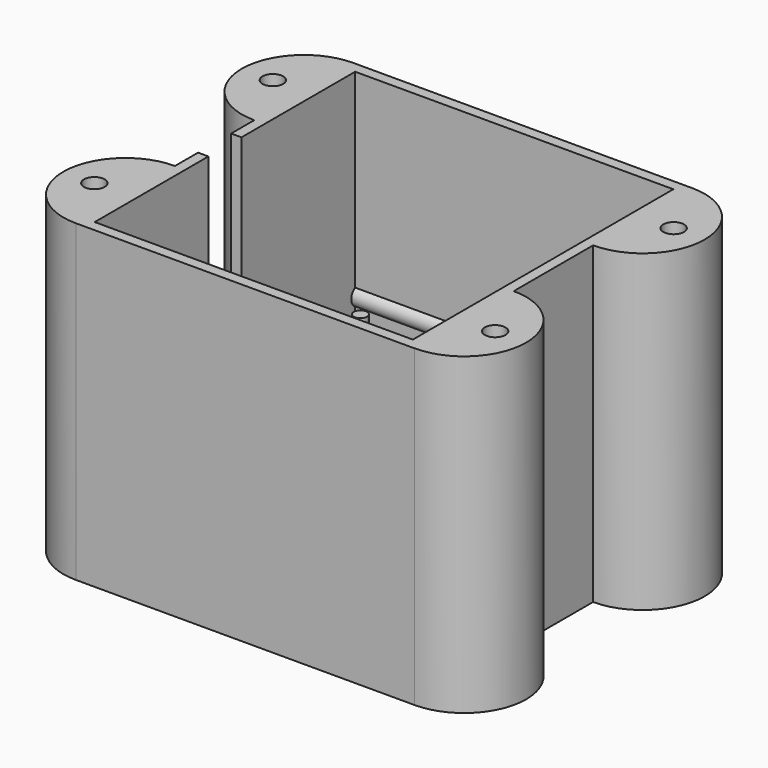
from build123d import *

# Parameters (mm, degrees)
F0_W           = 38.5
F0_H           = 39.4
F0_R           = 1.6
F1_DEPTH       = 3
F0_R_2         = 0.8
F2_DEPTH       = 11.4
F3_DEPTH       = 16
F0_R_3         = 1.25
F4_DEPTH       = 38
F5_W           = 1.25
F5_H           = 5
F6_DEPTH       = 28
F10_DEPTH      = 19.25
F10_DEPTH_BACK = 19.25


with BuildPart() as f1:
    # F0 (on Top) → F1 (new body)
    with BuildSketch(Plane.XY):
        Rectangle(F0_W, F0_H)
        with Locations((-14.25, -14.25)):
            Circle(F0_R, mode=Mode.SUBTRACT)
        with Locations((14.25, -14.25)):
            Circle(F0_R, mode=Mode.SUBTRACT)
        with Locations((-14.25, 14.25)):
            Circle(F0_R, mode=Mode.SUBTRACT)
        with Locations((14.25, 14.25)):
            Circle(F0_R, mode=Mode.SUBTRACT)
    extrude(amount=F1_DEPTH)

    # F0 (on Top) → F2 (join)
    with BuildSketch(Plane.XY):
        with Locations((-14.25, 14.25)):
            Circle(F0_R)
        with Locations((-14.25, 14.25)):
            Circle(F0_R_2, mode=Mode.SUBTRACT)
        with Locations((-14.25, -14.25)):
            Circle(F0_R)
        with Locations((-14.25, -14.25)):
            Circle(F0_R_2, mode=Mode.SUBTRACT)
        with Locations((14.25, -14.25)):
            Circle(F0_R)
        with Locations((14.25, -14.25)):
            Circle(F0_R_2, mode=Mode.SUBTRACT)
        with Locations((14.25, 14.25)):
            Circle(F0_R)
        with Locations((14.25, 14.25)):
            Circle(F0_R_2, mode=Mode.SUBTRACT)
    extrude(amount=F2_DEPTH)

    # F0 (on Top) → F3 (join)
    with BuildSketch(Plane.XY):
        with Locations((-14.25, 14.25)):
            Circle(F0_R_2)
        with Locations((-14.25, -14.25)):
            Circle(F0_R_2)
        with Locations((14.25, -14.25)):
            Circle(F0_R_2)
        with Locations((14.25, 14.25)):
            Circle(F0_R_2)
    extrude(amount=F3_DEPTH)

    # F0 (on Top) → F4 (join)
    with BuildSketch(Plane.XY):
        Polygon((20.5, 21), (-20.5, 21), (-20.5, 6), (-20.5, -6), (-20.5, -21), (20.5, -21), (20.5, -6), (20.5, 6), align=None)
        Rectangle(F0_W, F0_H, mode=Mode.SUBTRACT)
        with BuildLine():
            Line((-20.5, -21), (-20.5, -6))
            ThreePointArc((-20.5, -6), (-28, -13.5), (-20.5, -21))
        make_face()
        with Locations((-24.25, -13.5)):
            Circle(F0_R_3, mode=Mode.SUBTRACT)
        with BuildLine():
            ThreePointArc((20.5, -21), (28, -13.5), (20.5, -6))
            Line((20.5, -6), (20.5, -21))
        make_face()
        with Locations((24.25, -13.5)):
            Circle(F0_R_3, mode=Mode.SUBTRACT)
        with BuildLine():
            ThreePointArc((20.5, 6), (28, 13.5), (20.5, 21))
            Line((20.5, 21), (20.5, 6))
        make_face()
        with Locations((24.25, 13.5)):
            Circle(F0_R_3, mode=Mode.SUBTRACT)
        with BuildLine():
            Line((-20.5, 6), (-20.5, 21))
            ThreePointArc((-20.5, 21), (-28, 13.5), (-20.5, 6))
        make_face()
        with Locations((-24.25, 13.5)):
            Circle(F0_R_3, mode=Mode.SUBTRACT)
    extrude(amount=F4_DEPTH)

    # F5 (on face) → F6 (cut)
    with BuildSketch(Plane.XY.offset(38)):
        with Locations((-19.875, 0)):
            Rectangle(F5_W, F5_H)
    extrude(amount=-F6_DEPTH, mode=Mode.SUBTRACT)

    # F9 (on Right) → F10 (join, two sides)
    with BuildSketch(Plane.YZ) as f10_sk:
        with BuildLine():
            Line((19.7, 13), (19.7, 15))
            ThreePointArc((19.7, 15), (19.110149, 14), (19.7, 13))
        make_face()
        with BuildLine():
            ThreePointArc((-19.7, 13), (-19.110149, 14), (-19.7, 15))
            Line((-19.7, 15), (-19.7, 13))
        make_face()
    extrude(amount=F10_DEPTH)
    extrude(f10_sk.sketch, amount=-F10_DEPTH_BACK)


solid = f1.part
